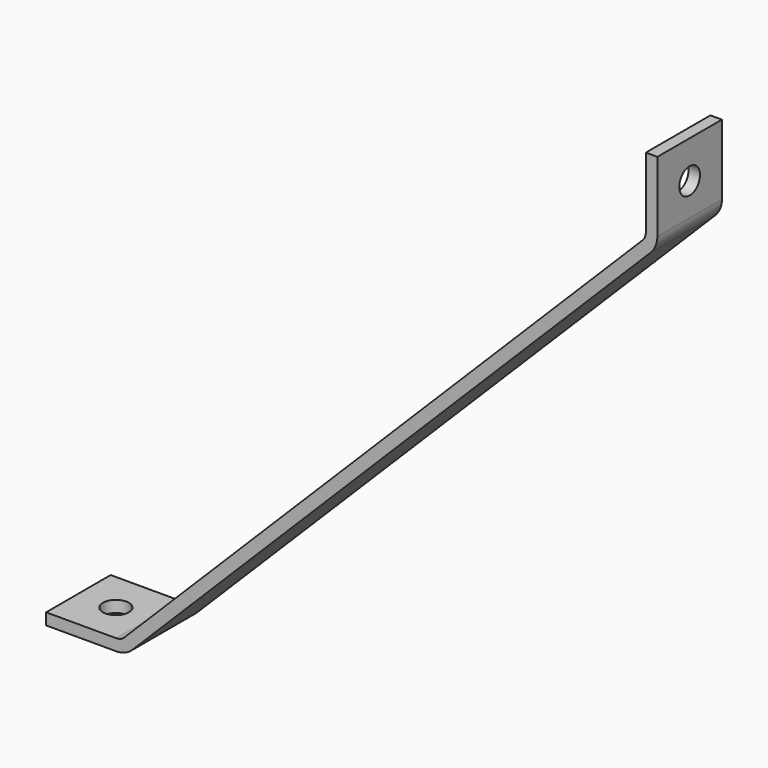
from build123d import *

# Parameters (mm, degrees)
F1_DEPTH = 22.225
F2_R     = 6.35
F3_R     = 12.7
F4_R     = 7.14375
F5_DEPTH = 25.4
F6_R     = 7.14375
F7_DEPTH = 206.502


with BuildPart() as f1:
    # F0 (on Front) → F1 (new body, symmetric)
    with BuildSketch(Plane.XZ):
        Polygon((-168.275, -168.275), (-124.369744, -168.275), (-124.097372, -168.002628), (168.002628, 124.097372), (168.275, 124.369744), (168.275, 168.275), (161.925, 168.275), (161.925, 127), (-127, -161.925), (-168.275, -161.925), align=None)
    extrude(amount=F1_DEPTH, both=True)

    # F2
    f2_edges = [f1.edges().sort_by_distance(p)[0] for p in [
        (-127, 0, -161.925),
        (161.925, 0, 127),
    ]]
    fillet(f2_edges, radius=F2_R)

    # F3
    f3_edges = [f1.edges().sort_by_distance(p)[0] for p in [
        (-124.369744, 0, -168.275),
        (168.275, 0, 124.369744),
    ]]
    fillet(f3_edges, radius=F3_R)

    # F4 (on face) → F5 (cut)
    with BuildSketch(Plane(origin=(161.925, 0, 0), x_dir=(0, -1, 0), z_dir=(-1, 0, 0))):
        with Locations((0, 147.6248)):
            Circle(F4_R)
    extrude(amount=-F5_DEPTH, mode=Mode.SUBTRACT)

    # F6 (on Top) → F7 (cut)
    with BuildSketch(Plane.XY):
        with Locations((-147.6248, 0)):
            Circle(F6_R)
    extrude(amount=-F7_DEPTH, mode=Mode.SUBTRACT)


solid = f1.part
